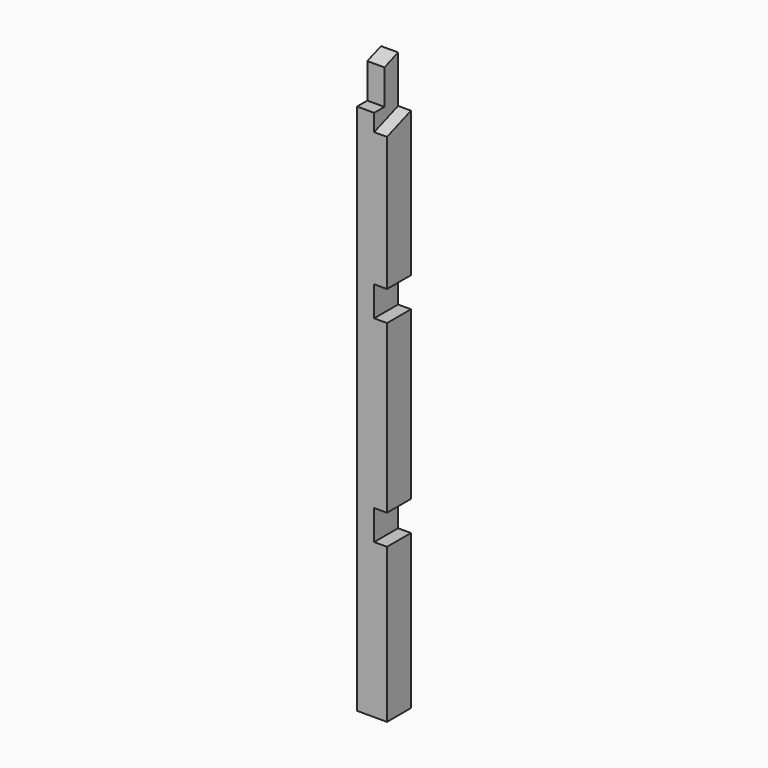
from build123d import *

# Parameters (mm, degrees)
BOX002_W        = 88.9
BOX002_H        = 88.9
BOX002_DEPTH    = 2438.4
SKETCH_W        = 38.1
SKETCH_H        = 88.9
POCKET_DEPTH    = 88.9010000032
POCKET007_DEPTH = 88.901
POCKET010_DEPTH = 38.1
SKETCH020_W     = 38.1
SKETCH020_H     = 114.3
POCKET017_DEPTH = 88.901
SKETCH033_W     = 88.9
SKETCH033_H     = 88.9
POCKET023_DEPTH = 38.1


with BuildPart() as part:
    # Box002 → Box002 (new body)
    with BuildSketch(Plane(origin=(1435.1, 0, 0), x_dir=(1, 0, 0), z_dir=(0, 0, 1))):
        with Locations((44.45, 44.45)):
            Rectangle(BOX002_W, BOX002_H)
    extrude(amount=BOX002_DEPTH)

    # Sketch → Pocket (cut, through all)
    with BuildSketch(Plane(origin=(1435.1, 0, 0), x_dir=(1, 0, 0), z_dir=(0, -1, 0))):
        with Locations((69.85, 501.65)):
            Rectangle(SKETCH_W, SKETCH_H)
    extrude(amount=-POCKET_DEPTH, mode=Mode.SUBTRACT)

    # Sketch008 → Pocket007 (cut, through all)
    with BuildSketch(Plane.YZ.offset(1524)):
        Polygon((0, 1667.24584), (0, 2438.4), (88.9, 2438.4), (88.9, 1699.6027938263), align=None)
    extrude(amount=-POCKET007_DEPTH, mode=Mode.SUBTRACT)

    # Sketch011 → Pocket010 (cut)
    with BuildSketch(Plane.YZ.offset(1524)):
        Polygon((0, 1667.253968), (88.9, 1699.6109218263), (88.9, 1559.9109218263), (0, 1527.553968), align=None)
    extrude(amount=-POCKET010_DEPTH, mode=Mode.SUBTRACT)

    # Sketch020 → Pocket017 (cut, through all)
    with BuildSketch(Plane(origin=(1435.1, 0, 0), x_dir=(0, -1, 0), z_dir=(-1, 0, 0))):
        with Locations((-19.05, 1635.125)):
            Rectangle(SKETCH020_W, SKETCH020_H)
    extrude(amount=-POCKET017_DEPTH, mode=Mode.SUBTRACT)

    # Sketch033 → Pocket023 (cut)
    with BuildSketch(Plane.YZ.offset(1524)):
        with Locations((44.45, 1085.85)):
            Rectangle(SKETCH033_W, SKETCH033_H)
    extrude(amount=-POCKET023_DEPTH, mode=Mode.SUBTRACT)


solid = part.part
